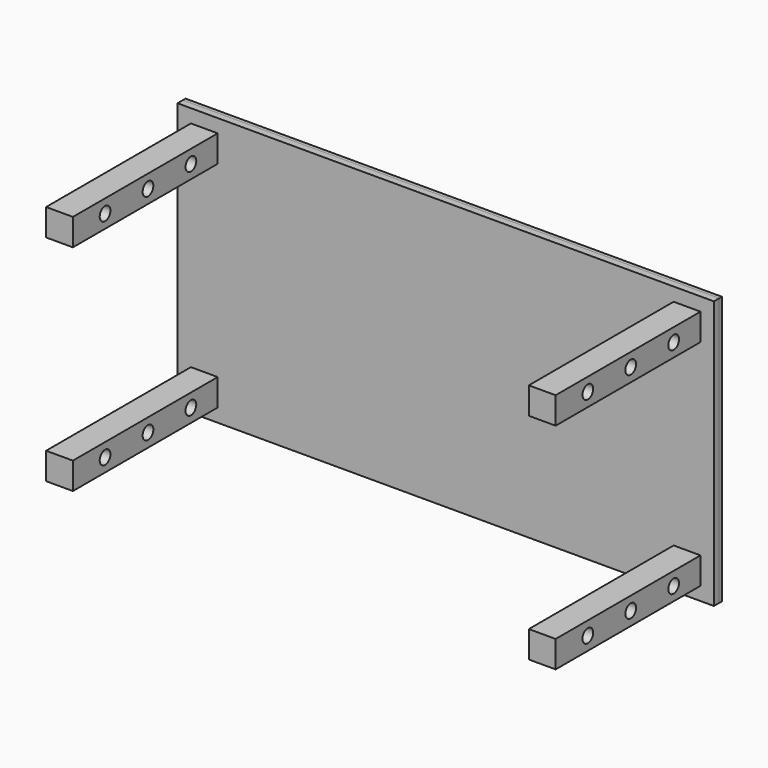
from build123d import *

# Parameters (mm, degrees)
F0_W     = 2000
F0_H     = 1000
F0_W_2   = 100
F0_H_2   = 100
F1_DEPTH = 12.5
F2_DEPTH = 700
F3_DEPTH = 25
F4_R     = 25
F5_DEPTH = 1950.001


with BuildPart() as f1:
    # F0 (on Front) → F1 (new body, symmetric)
    with BuildSketch(Plane.XZ):
        with Locations((950, 450)):
            Rectangle(F0_W, F0_H)
        with Locations((50, 50)):
            Rectangle(F0_W_2, F0_H_2, mode=Mode.SUBTRACT)
        with Locations((1850, 50)):
            Rectangle(F0_W_2, F0_H_2, mode=Mode.SUBTRACT)
        with Locations((50, 850)):
            Rectangle(F0_W_2, F0_H_2, mode=Mode.SUBTRACT)
        with Locations((1850, 850)):
            Rectangle(F0_W_2, F0_H_2, mode=Mode.SUBTRACT)
    extrude(amount=F1_DEPTH, both=True)


with BuildPart() as f2:
    # F0 (on Front) → F2 (new body)
    with BuildSketch(Plane.XZ):
        with Locations((50, 850)):
            Rectangle(F0_W_2, F0_H_2)
        with Locations((1850, 850)):
            Rectangle(F0_W_2, F0_H_2)
        with Locations((1850, 50)):
            Rectangle(F0_W_2, F0_H_2)
        with Locations((50, 50)):
            Rectangle(F0_W_2, F0_H_2)
    extrude(amount=F2_DEPTH)

    # F4 (on face) → F5 (cut, through all)
    with BuildSketch(Plane(origin=(0, 0, 0), x_dir=(0, -1, 0), z_dir=(-1, 0, 0))):
        with Locations((150, 850)):
            Circle(F4_R)
        with Locations((350, 50)):
            Circle(F4_R)
        with Locations((550, 50)):
            Circle(F4_R)
        with Locations((350, 850)):
            Circle(F4_R)
        with Locations((550, 850)):
            Circle(F4_R)
        with Locations((150, 50)):
            Circle(F4_R)
    extrude(amount=-F5_DEPTH, mode=Mode.SUBTRACT)


with BuildPart() as f3:
    # F0 (on Front) → F3 (new body)
    with BuildSketch(Plane.XZ):
        with Locations((950, 450)):
            Rectangle(F0_W, F0_H)
        with Locations((50, 50)):
            Rectangle(F0_W_2, F0_H_2, mode=Mode.SUBTRACT)
        with Locations((1850, 50)):
            Rectangle(F0_W_2, F0_H_2, mode=Mode.SUBTRACT)
        with Locations((50, 850)):
            Rectangle(F0_W_2, F0_H_2, mode=Mode.SUBTRACT)
        with Locations((1850, 850)):
            Rectangle(F0_W_2, F0_H_2, mode=Mode.SUBTRACT)
    extrude(amount=F3_DEPTH)


solid = Compound([f1.part, f2.part, f3.part])
